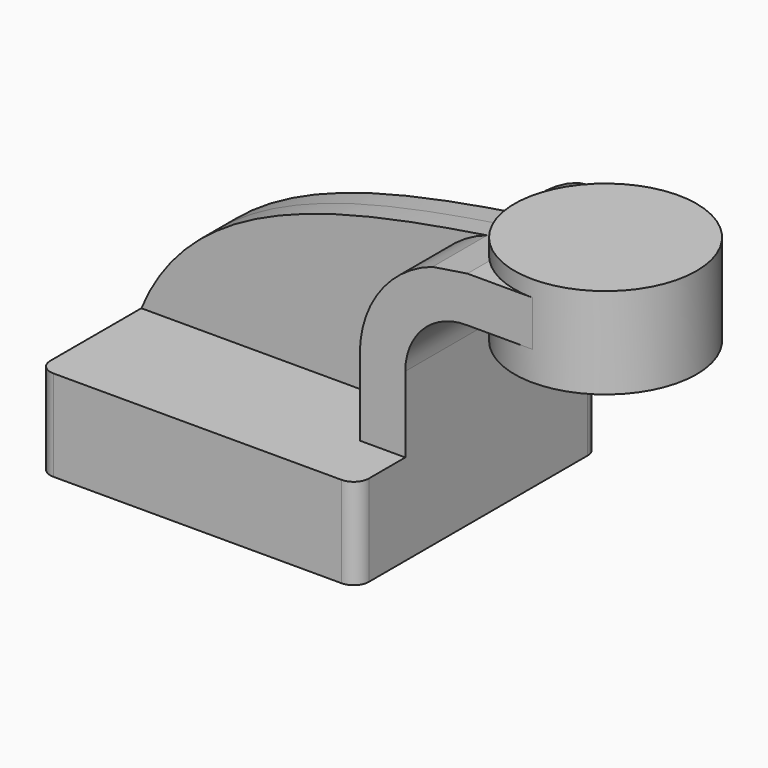
from build123d import *

# Parameters (mm, degrees)
F1_DEPTH = 63.5
F2_DEPTH = 9.525
F3_DEPTH = 38.1
F5_R     = 6.35


with BuildPart() as f1:
    # F0 (on Front) → F1 (new body, symmetric)
    with BuildSketch(Plane.XZ):
        Polygon((47.625, 19.05), (-66.675, 19.05), (-66.675, -19.05), (66.675, -19.05), (66.675, 19.05), align=None)
    extrude(amount=F1_DEPTH, both=True)

    # F0 (on Front) → F2 (join, symmetric)
    with BuildSketch(Plane.XZ):
        with BuildLine():
            add(Edge.make_bspline(
                [(-66.675, 19.05), (-45.088604, 71.2366), (17.616627, 83.509553), (78.066317, 92.984823)],
                knots=[0, 0, 0, 0, 163.406627, 163.406627, 163.406627, 163.406627], degree=3))
            Line((-66.675, 19.05), (47.625, 19.05))
            Line((47.625, 19.05), (47.625, 50.8))
            ThreePointArc((47.625, 50.8), (56.029969, 76.810734), (78.066317, 92.984823))
        make_face()
    extrude(amount=F2_DEPTH, both=True)

    # F0 (on Front) → F3 (join, symmetric)
    with BuildSketch(Plane.XZ):
        with BuildLine():
            Line((47.625, 50.8), (47.625, 19.05))
            Line((47.625, 19.05), (66.675, 19.05))
            Line((66.675, 19.05), (66.675, 50.8))
            ThreePointArc((66.675, 50.8), (74.269175, 68.913879), (92.510638, 76.196264))
            Line((92.510638, 76.196264), (120.014986, 76.196264))
            Line((120.014986, 76.196264), (120.014986, 95.246264))
            Line((120.014986, 95.246264), (92.651304, 95.246264))
            add(Edge.make_bspline(
                [(78.066317, 92.984823), (82.950328, 93.750374), (87.819616, 94.497663), (92.651304, 95.246264)],
                knots=[163.406627, 163.406627, 163.406627, 163.406627, 176.609009, 176.609009, 176.609009, 176.609009], degree=3))
            ThreePointArc((78.066317, 92.984823), (56.029969, 76.810734), (47.625, 50.8))
        make_face()
    extrude(amount=F3_DEPTH, both=True)

    # F0 (on Front) → F4 (revolve)
    with BuildSketch(Plane.XZ):
        Polygon((120.014986, 102.023325), (120.014986, 95.246264), (136.960638, 95.246264), (136.960638, 76.196264), (120.014986, 76.196264), (120.014986, 63.923325), (158.114986, 63.923325), (158.114986, 102.023325), align=None)
    revolve(axis=Axis((120.014986, 0, 82.973325), (0, 0, -1)))

    # F5
    f5_edges = [f1.edges().sort_by_distance(p)[0] for p in [
        (-66.675, -63.5, 0),
        (66.675, -63.5, 0),
        (66.675, 63.5, 0),
        (-66.675, 63.5, 0),
    ]]
    fillet(f5_edges, radius=F5_R)


solid = f1.part
